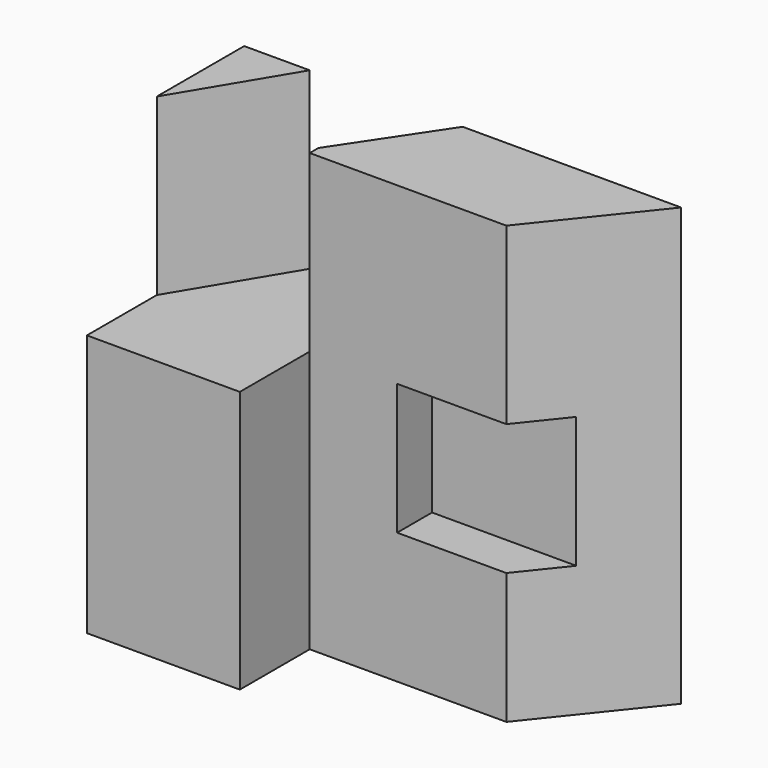
from build123d import *

# Parameters (mm, degrees)
F0_W      = 100
F0_H      = 100
F1_DEPTH  = 45
F3_DEPTH  = 40
F5_DEPTH  = 85
F6_W      = 45
F6_H      = 20
F7_DEPTH  = 100.001
F9_DEPTH  = 100.001
F10_W     = 25
F10_H     = 30
F10_W_2   = 10
F11_DEPTH = 10


with BuildPart() as f1:
    # F0 (on Front) → F1 (new body)
    with BuildSketch(Plane.XZ):
        with Locations((-50, 50)):
            Rectangle(F0_W, F0_H)
    extrude(amount=F1_DEPTH)

    # F2 (on face) → F3 (cut)
    with BuildSketch(Plane.XY.offset(100)):
        Polygon((-100, -25), (-100, -45), (-65, -45), (-65, 0), (-85, 0), align=None)
    extrude(amount=-F3_DEPTH, mode=Mode.SUBTRACT)

    # F4 (on face) → F5 (cut)
    with BuildSketch(Plane.XY.offset(100)):
        Polygon((-50, 0), (-65, 0), (-65, -22.5), align=None)
    extrude(amount=-F5_DEPTH, mode=Mode.SUBTRACT)

    # F6 (on face) → F7 (cut, through all)
    with BuildSketch(Plane.XY.offset(100)):
        with Locations((-42.5, -35)):
            Rectangle(F6_W, F6_H)
    extrude(amount=-F7_DEPTH, mode=Mode.SUBTRACT)

    # F8 (on face) → F9 (cut, through all)
    with BuildSketch(Plane.XY.offset(100)):
        Polygon((0, 0), (-20, -25), (-20, -45), (0, -45), align=None)
    extrude(amount=-F9_DEPTH, mode=Mode.SUBTRACT)

    # F10 (on face) → F11 (cut)
    with BuildSketch(Plane.XZ.offset(25)):
        with Locations((-32.5, 45)):
            Rectangle(F10_W, F10_H)
        with Locations((-15, 45)):
            Rectangle(F10_W_2, F10_H)
    extrude(amount=-F11_DEPTH, mode=Mode.SUBTRACT)


solid = f1.part
